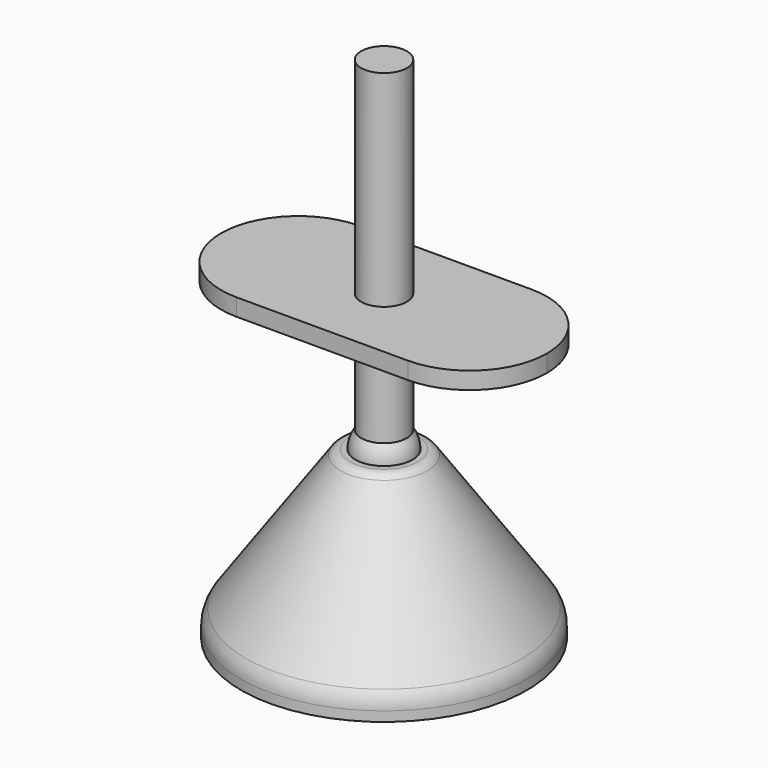
from build123d import *

# Parameters (mm, degrees)
F5_R     = 4
F6_DEPTH = 3


with BuildPart() as f1:
    # F0 (on Front) → F1 (revolve)
    with BuildSketch(Plane.XZ):
        with BuildLine():
            Line((-25, 0), (0, 0))
            Line((0, 0), (0, 24))
            ThreePointArc((0, 24), (-3.535534, 25.464466), (-5, 29))
            Line((-5, 29), (-5.958494, 29))
            ThreePointArc((-5.958494, 29), (-6.882251, 28.773887), (-7.597134, 28.146674))
            Line((-7.597134, 28.146674), (-24.096598, 4.568329))
            ThreePointArc((-24.096598, 4.568329), (-24.768804, 3.204477), (-25, 1.701645))
            Line((-25, 1.701645), (-25, 0))
        make_face()
    revolve(axis=Axis((0, 0, 14.5), (0, 0, 1)))


with BuildPart() as f3:
    # F2 (on Front) → F3 (revolve)
    with BuildSketch(Plane.XZ):
        with BuildLine():
            Line((-4, 89), (-4, 32))
            ThreePointArc((-4, 32), (-4.472136, 26.763932), (0, 24))
            Line((0, 24), (0, 34))
            Line((0, 34), (0, 89))
            Line((0, 89), (-4, 89))
        make_face()
    revolve(axis=Axis((0, 0, 29), (0, 0, -1)))


with BuildPart() as f6:
    # F5 (on offset) → F6 (new body)
    with BuildSketch(Plane.XY.offset(50)):
        with BuildLine():
            Line((15, 13.5), (-15, 13.5))
            ThreePointArc((-15, 13.5), (-24.545942, 9.545942), (-28.5, 0))
            ThreePointArc((-28.5, 0), (-24.545942, -9.545942), (-15, -13.5))
            Line((-15, -13.5), (15, -13.5))
            ThreePointArc((15, -13.5), (24.545942, -9.545942), (28.5, 0))
            ThreePointArc((28.5, 0), (24.545942, 9.545942), (15, 13.5))
        make_face()
        Circle(F5_R, mode=Mode.SUBTRACT)
    extrude(amount=F6_DEPTH)


solid = Compound([f1.part, f3.part, f6.part])
